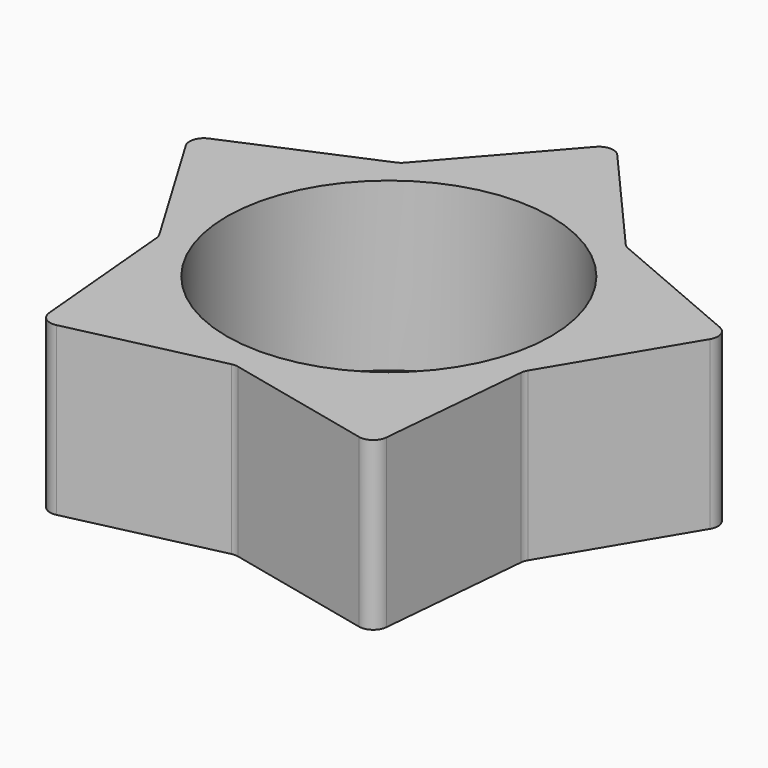
from build123d import *

# Parameters (mm, degrees)
F0_R     = 14.478
F1_DEPTH = 14.9225
F2_R     = 1.27


with BuildPart() as f1:
    # F0 (on Top) → F1 (new body)
    with BuildSketch(Plane.XY):
        Polygon((10.077578, 13.870596), (0, 25.4), (-10.077578, 13.870596), (-24.156836, 7.849032), (-16.305864, -5.298096), (-14.929745, -20.549032), (0, -17.145), (14.929745, -20.549032), (16.305864, -5.298096), (24.156836, 7.849032), align=None)
        Circle(F0_R, mode=Mode.SUBTRACT)
    extrude(amount=F1_DEPTH)

    # F2
    f2_edges = [f1.edges().sort_by_distance(p)[0] for p in [
        (-14.929745, -20.549032, 7.46125),
        (14.929745, -20.549032, 7.46125),
        (-24.156836, 7.849032, 7.46125),
        (24.156836, 7.849032, 7.46125),
        (0, 25.4, 7.46125),
        (-16.305864, -5.298096, 7.46125),
        (0, -17.145, 7.46125),
        (16.305864, -5.298096, 7.46125),
        (10.077578, 13.870596, 7.46125),
        (-10.077578, 13.870596, 7.46125),
    ]]
    fillet(f2_edges, radius=F2_R)


solid = f1.part
